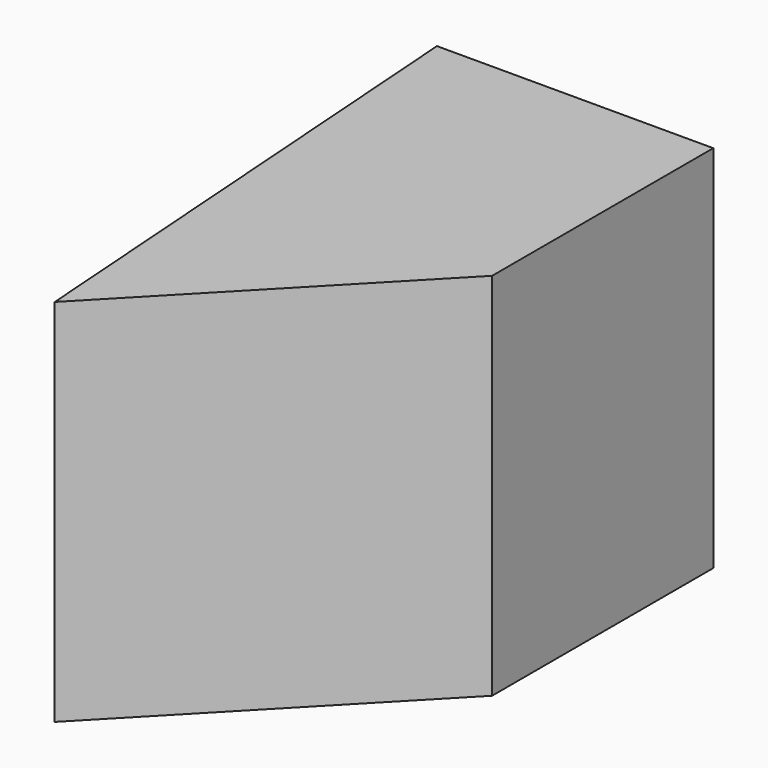
from build123d import *

# Parameters (mm, degrees)
F1_DEPTH = 73.660001


with BuildPart() as f1:
    # F0 (on Top) → F1 (new body)
    with BuildSketch(Plane.XY):
        Polygon((0, -49.389496), (47.62746, 0), (47.62746, 55.076249), (-7.423706, 55.076249), align=None)
    extrude(amount=-F1_DEPTH)


solid = f1.part
